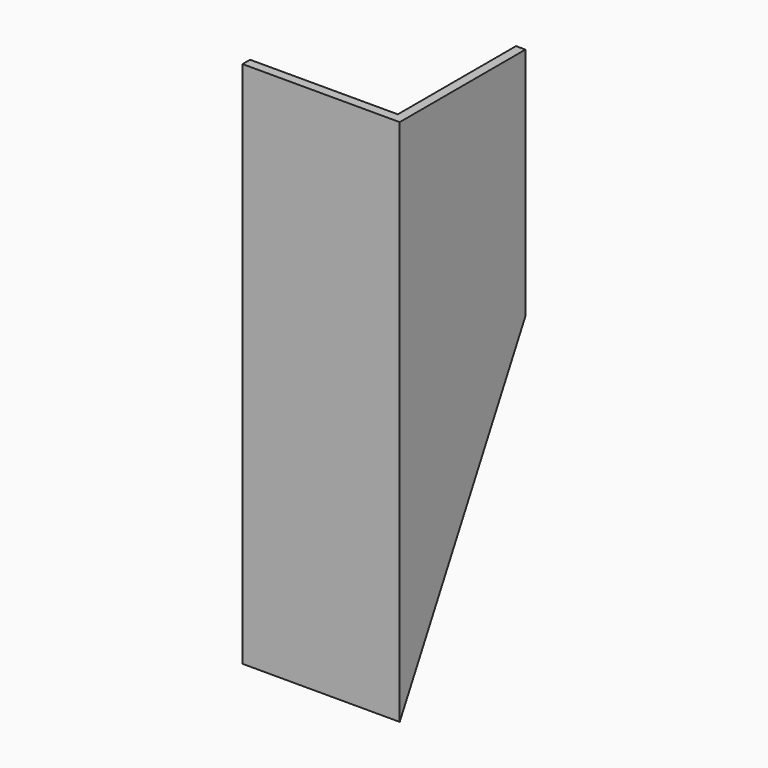
from build123d import *

# Parameters (mm, degrees)
F0_W     = 1.5
F0_H     = 1.5
F0_H_2   = 23.5
F0_W_2   = 23.5
F1_DEPTH = 84
F3_DEPTH = 25


with BuildPart() as f1:
    # F0 (on Top) → F1 (new body)
    with BuildSketch(Plane.XY):
        with Locations((11.75, 0)):
            Rectangle(F0_W, F0_H)
        with Locations((11.75, 12.5)):
            Rectangle(F0_W, F0_H_2)
        with Locations((-0.75, 0)):
            Rectangle(F0_W_2, F0_H)
    extrude(amount=-F1_DEPTH)

    # F2 (on face) → F3 (cut)
    with BuildSketch(Plane.YZ.offset(12.5)):
        Polygon((24.25, -37.333333), (-0.75, -84), (24.25, -84), align=None)
    extrude(amount=-F3_DEPTH, mode=Mode.SUBTRACT)


solid = f1.part
